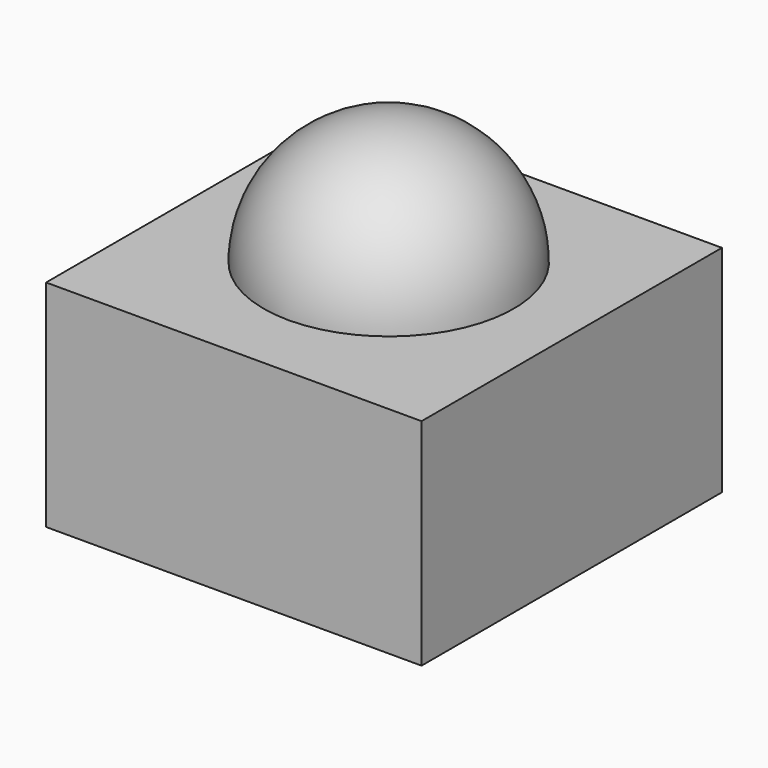
from build123d import *

# Parameters (mm, degrees)
F0_W     = 15
F0_H     = 15
F1_DEPTH = 8.6


with BuildPart() as f1:
    # F0 (on Top) → F1 (new body)
    with BuildSketch(Plane.XY):
        with Locations((-7.5, 13.519098)):
            Rectangle(F0_W, F0_H)
    extrude(amount=F1_DEPTH)

    # F2 (on face) → F3 (revolve)
    with BuildSketch(Plane.XY.offset(8.6)):
        with BuildLine():
            Line((-7.5, 8.752942), (-7.5, 18.752942))
            ThreePointArc((-7.5, 18.752942), (-12.5, 13.752942), (-7.5, 8.752942))
        make_face()
    revolve(axis=Axis((-7.5, 13.752942, 8.6), (0, -1, 0)))


solid = f1.part
